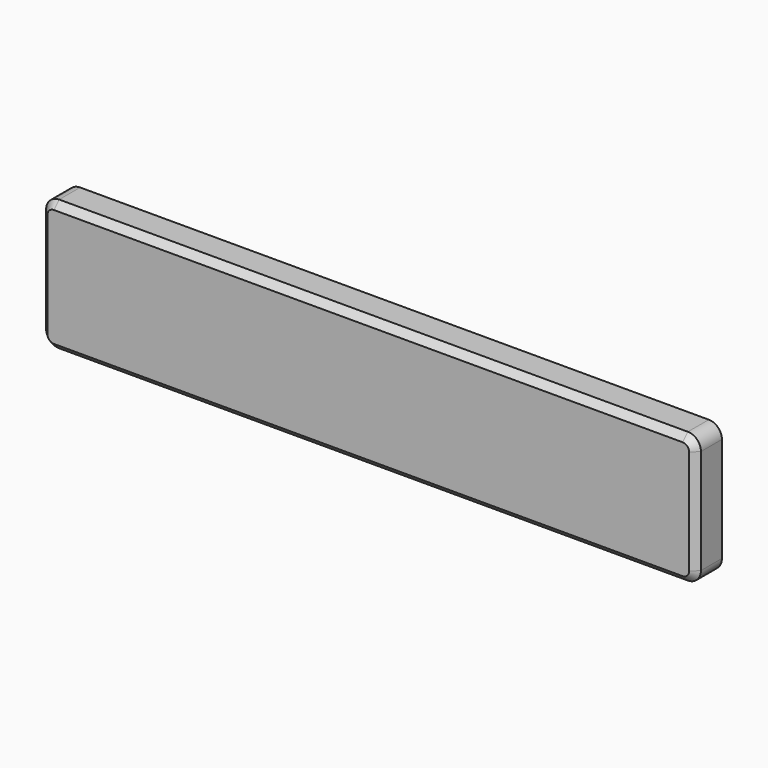
from build123d import *

# Parameters (mm, degrees)
F0_W     = 127
F0_H     = 25.4
F1_DEPTH = 3.175
F2_R     = 2.54
F3_SIZE  = 1.27


with BuildPart() as f1:
    # F0 (on Front) → F1 (new body, symmetric)
    with BuildSketch(Plane.XZ):
        Rectangle(F0_W, F0_H)
    extrude(amount=F1_DEPTH, both=True)

    # F2
    f2_edges = [f1.edges().sort_by_distance(p)[0] for p in [
        (-63.5, 0, -12.7),
        (63.5, 0, -12.7),
        (-63.5, 0, 12.7),
        (63.5, 0, 12.7),
    ]]
    fillet(f2_edges, radius=F2_R)

    # F3
    f3_edges = [f1.edges().sort_by_distance(p)[0] for p in [
        (0, -3.175, 12.7),
        (-63.5, -3.175, 0),
        (0, -3.175, -12.7),
        (63.5, -3.175, 0),
        (62.756051, -3.175, 11.956051),
        (-62.756051, -3.175, 11.956051),
        (-62.756051, -3.175, -11.956051),
        (62.756051, -3.175, -11.956051),
    ]]
    chamfer(f3_edges, length=F3_SIZE)


solid = f1.part
